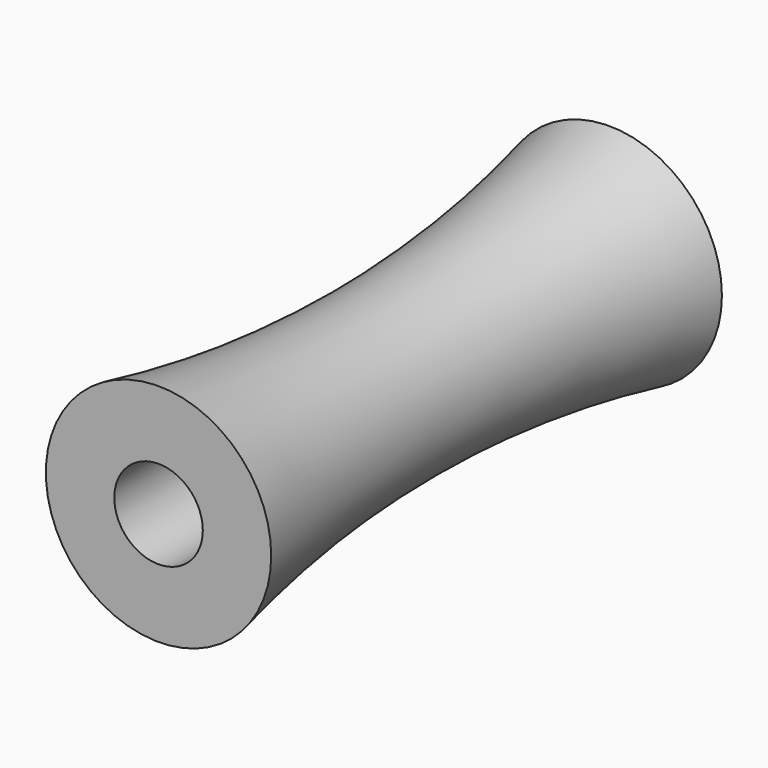
from build123d import *


with BuildPart() as f1:
    # F0 (on Top) → F1 (revolve)
    with BuildSketch(Plane.XY):
        with BuildLine():
            Line((7, 35), (2.75, 35))
            Line((2.75, 35), (2.75, 0))
            Line((2.75, 0), (7, 0))
            ThreePointArc((7, 0), (5.108303, 17.5), (7, 35))
        make_face()
    revolve(axis=Axis((0, 17.5, 0), (0, 1, 0)))


solid = f1.part
